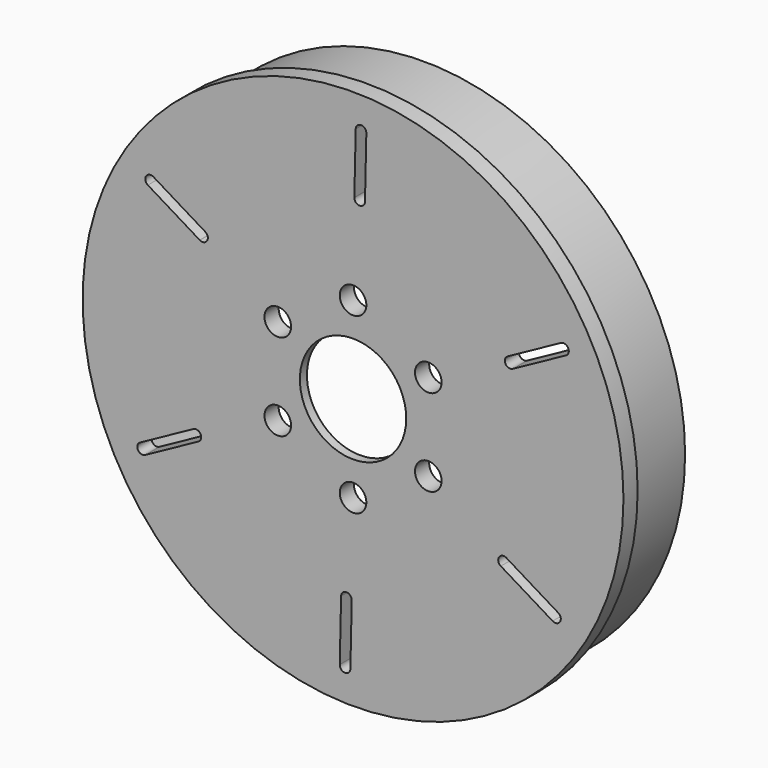
from build123d import *

# Parameters (mm, degrees)
F0_R     = 152.5
F0_R_2   = 7.5
F0_R_3   = 30
F1_DEPTH = 10
F2_R     = 147.266784
F2_R_2   = 141.252776
F3_DEPTH = 40
F4_R     = 39
F5_DEPTH = 5


with BuildPart() as f1:
    # F0 (on Front) → F1 (new body)
    with BuildSketch(Plane.XZ):
        Circle(F0_R)
        with BuildLine():
            ThreePointArc((-1.5, -134.491635), (-4.599609, -137.423046), (-7.496269, -134.290938))
            Line((-7.496269, -134.290938), (-6.733122, -100.082887))
            ThreePointArc((-6.733122, -100.082887), (-3.700411, -97.149984), (-0.733868, -100.149798))
            ThreePointArc((-0.733868, -100.149798), (-0.734614, -100.216708), (-0.736853, -100.283585))
            Line((-0.736853, -100.283585), (-1.5, -134.491635))
        make_face(mode=Mode.SUBTRACT)
        with BuildLine():
            ThreePointArc((-117.223173, -65.94678), (-121.311653, -64.728145), (-120.047498, -60.653509))
            Line((-120.047498, -60.653509), (-90.040884, -44.210389))
            ThreePointArc((-90.040884, -44.210389), (-85.98456, -45.370342), (-87.099203, -49.43935))
            ThreePointArc((-87.099203, -49.43935), (-87.157522, -49.472159), (-87.216559, -49.503659))
            Line((-87.216559, -49.503659), (-117.223173, -65.94678))
        make_face(mode=Mode.SUBTRACT)
        with Locations((-42.435245, -24.5)):
            Circle(F0_R_2, mode=Mode.SUBTRACT)
        with Locations((0, -49)):
            Circle(F0_R_2, mode=Mode.SUBTRACT)
        with Locations((42.435245, -24.5)):
            Circle(F0_R_2, mode=Mode.SUBTRACT)
        with BuildLine():
            ThreePointArc((115.723173, -68.544856), (116.712045, -72.694901), (112.551229, -73.637428))
            Line((112.551229, -73.637428), (83.307762, -55.872498))
            ThreePointArc((83.307762, -55.872498), (82.284149, -51.779642), (86.365335, -50.710447))
            ThreePointArc((86.365335, -50.710447), (86.422908, -50.744549), (86.479706, -50.779926))
            Line((86.479706, -50.779926), (115.723173, -68.544856))
        make_face(mode=Mode.SUBTRACT)
        with BuildLine():
            ThreePointArc((-115.723173, 68.544856), (-116.712045, 72.694901), (-112.551229, 73.637428))
            Line((-112.551229, 73.637428), (-83.307762, 55.872498))
            ThreePointArc((-83.307762, 55.872498), (-82.284149, 51.779642), (-86.365335, 50.710447))
            ThreePointArc((-86.365335, 50.710447), (-86.422908, 50.744549), (-86.479706, 50.779926))
            Line((-86.479706, 50.779926), (-115.723173, 68.544856))
        make_face(mode=Mode.SUBTRACT)
        with Locations((-42.435245, 24.5)):
            Circle(F0_R_2, mode=Mode.SUBTRACT)
        Circle(F0_R_3, mode=Mode.SUBTRACT)
        with Locations((42.435245, 24.5)):
            Circle(F0_R_2, mode=Mode.SUBTRACT)
        with Locations((0, 49)):
            Circle(F0_R_2, mode=Mode.SUBTRACT)
        with BuildLine():
            ThreePointArc((117.223173, 65.94678), (121.311653, 64.728145), (120.047498, 60.653509))
            Line((120.047498, 60.653509), (90.040884, 44.210389))
            ThreePointArc((90.040884, 44.210389), (85.98456, 45.370342), (87.099203, 49.43935))
            ThreePointArc((87.099203, 49.43935), (87.157522, 49.472159), (87.216559, 49.503659))
            Line((87.216559, 49.503659), (117.223173, 65.94678))
        make_face(mode=Mode.SUBTRACT)
        with BuildLine():
            ThreePointArc((1.5, 134.491635), (4.599609, 137.423046), (7.496269, 134.290938))
            Line((7.496269, 134.290938), (6.733122, 100.082887))
            ThreePointArc((6.733122, 100.082887), (3.700411, 97.149984), (0.733868, 100.149798))
            ThreePointArc((0.733868, 100.149798), (0.734614, 100.216708), (0.736853, 100.283585))
            Line((0.736853, 100.283585), (1.5, 134.491635))
        make_face(mode=Mode.SUBTRACT)
    extrude(amount=F1_DEPTH)

    # F2 (on face) → F3 (join)
    with BuildSketch(Plane(origin=(0, 0, 0), x_dir=(-1, 0, 0), z_dir=(0, 1, 0))):
        Circle(F2_R)
        Circle(F2_R_2, mode=Mode.SUBTRACT)
    extrude(amount=F3_DEPTH)

    # F4 (on face) → F5 (cut)
    with BuildSketch(Plane(origin=(0, 0, 0), x_dir=(-1, 0, 0), z_dir=(0, 1, 0))):
        Circle(F4_R)
    extrude(amount=-F5_DEPTH, mode=Mode.SUBTRACT)


solid = f1.part
